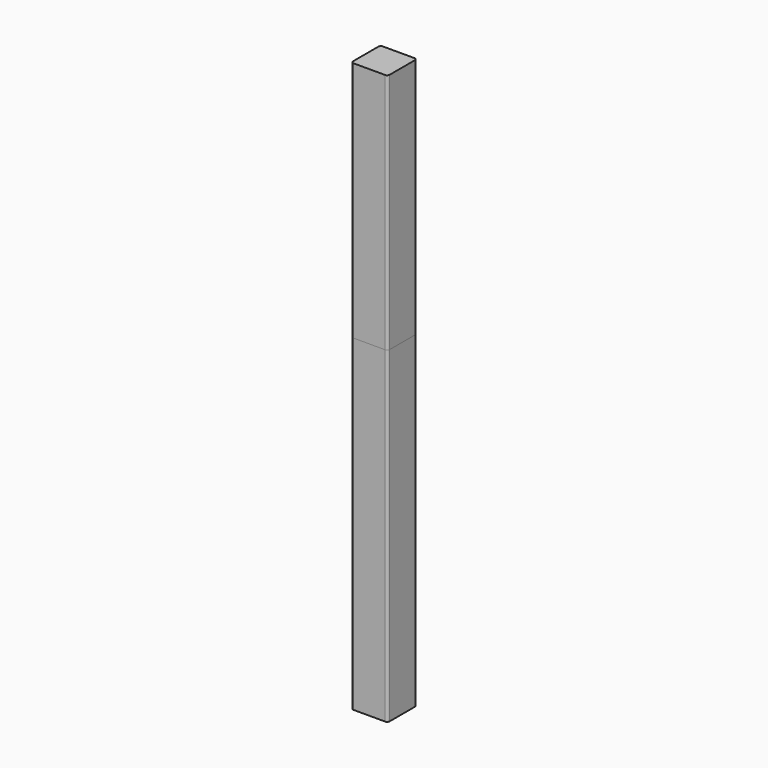
from build123d import *

# Parameters (mm, degrees)
F1_DEPTH = 610
F2_DEPTH = 700
F3_DEPTH = 300
F4_DEPTH = 255
F5_DEPTH = 182
F6_DEPTH = 402.5


with BuildPart() as f1:
    # F0 (on Top) → F1 (new body)
    with BuildSketch(Plane.XY):
        with BuildLine():
            ThreePointArc((22.5, 19.5), (21.62132, 21.62132), (19.5, 22.5))
            Line((19.5, 22.5), (-19.5, 22.5))
            ThreePointArc((-19.5, 22.5), (-21.62132, 21.62132), (-22.5, 19.5))
            Line((-22.5, 19.5), (-22.5, -19.5))
            ThreePointArc((-22.5, -19.5), (-21.62132, -21.62132), (-19.5, -22.5))
            Line((-19.5, -22.5), (19.5, -22.5))
            ThreePointArc((19.5, -22.5), (21.62132, -21.62132), (22.5, -19.5))
            Line((22.5, -19.5), (22.5, 19.5))
        make_face()
    extrude(amount=F1_DEPTH)


with BuildPart() as f2:
    # F0 (on Top) → F2 (new body)
    with BuildSketch(Plane.XY):
        with BuildLine():
            ThreePointArc((22.5, 19.5), (21.62132, 21.62132), (19.5, 22.5))
            Line((19.5, 22.5), (-19.5, 22.5))
            ThreePointArc((-19.5, 22.5), (-21.62132, 21.62132), (-22.5, 19.5))
            Line((-22.5, 19.5), (-22.5, -19.5))
            ThreePointArc((-22.5, -19.5), (-21.62132, -21.62132), (-19.5, -22.5))
            Line((-19.5, -22.5), (19.5, -22.5))
            ThreePointArc((19.5, -22.5), (21.62132, -21.62132), (22.5, -19.5))
            Line((22.5, -19.5), (22.5, 19.5))
        make_face()
    extrude(amount=F2_DEPTH)


with BuildPart() as f3:
    # F0 (on Top) → F3 (new body)
    with BuildSketch(Plane.XY):
        with BuildLine():
            ThreePointArc((22.5, 19.5), (21.62132, 21.62132), (19.5, 22.5))
            Line((19.5, 22.5), (-19.5, 22.5))
            ThreePointArc((-19.5, 22.5), (-21.62132, 21.62132), (-22.5, 19.5))
            Line((-22.5, 19.5), (-22.5, -19.5))
            ThreePointArc((-22.5, -19.5), (-21.62132, -21.62132), (-19.5, -22.5))
            Line((-19.5, -22.5), (19.5, -22.5))
            ThreePointArc((19.5, -22.5), (21.62132, -21.62132), (22.5, -19.5))
            Line((22.5, -19.5), (22.5, 19.5))
        make_face()
    extrude(amount=F3_DEPTH)


with BuildPart() as f4:
    # F0 (on Top) → F4 (new body)
    with BuildSketch(Plane.XY):
        with BuildLine():
            ThreePointArc((22.5, 19.5), (21.62132, 21.62132), (19.5, 22.5))
            Line((19.5, 22.5), (-19.5, 22.5))
            ThreePointArc((-19.5, 22.5), (-21.62132, 21.62132), (-22.5, 19.5))
            Line((-22.5, 19.5), (-22.5, -19.5))
            ThreePointArc((-22.5, -19.5), (-21.62132, -21.62132), (-19.5, -22.5))
            Line((-19.5, -22.5), (19.5, -22.5))
            ThreePointArc((19.5, -22.5), (21.62132, -21.62132), (22.5, -19.5))
            Line((22.5, -19.5), (22.5, 19.5))
        make_face()
    extrude(amount=F4_DEPTH)


with BuildPart() as f5:
    # F0 (on Top) → F5 (new body)
    with BuildSketch(Plane.XY):
        with BuildLine():
            ThreePointArc((22.5, 19.5), (21.62132, 21.62132), (19.5, 22.5))
            Line((19.5, 22.5), (-19.5, 22.5))
            ThreePointArc((-19.5, 22.5), (-21.62132, 21.62132), (-22.5, 19.5))
            Line((-22.5, 19.5), (-22.5, -19.5))
            ThreePointArc((-22.5, -19.5), (-21.62132, -21.62132), (-19.5, -22.5))
            Line((-19.5, -22.5), (19.5, -22.5))
            ThreePointArc((19.5, -22.5), (21.62132, -21.62132), (22.5, -19.5))
            Line((22.5, -19.5), (22.5, 19.5))
        make_face()
    extrude(amount=F5_DEPTH)


with BuildPart() as f6:
    # F0 (on Top) → F6 (new body)
    with BuildSketch(Plane.XY):
        with BuildLine():
            ThreePointArc((22.5, 19.5), (21.62132, 21.62132), (19.5, 22.5))
            Line((19.5, 22.5), (-19.5, 22.5))
            ThreePointArc((-19.5, 22.5), (-21.62132, 21.62132), (-22.5, 19.5))
            Line((-22.5, 19.5), (-22.5, -19.5))
            ThreePointArc((-22.5, -19.5), (-21.62132, -21.62132), (-19.5, -22.5))
            Line((-19.5, -22.5), (19.5, -22.5))
            ThreePointArc((19.5, -22.5), (21.62132, -21.62132), (22.5, -19.5))
            Line((22.5, -19.5), (22.5, 19.5))
        make_face()
    extrude(amount=F6_DEPTH)


solid = Compound([f1.part, f2.part, f3.part, f4.part, f5.part, f6.part])
